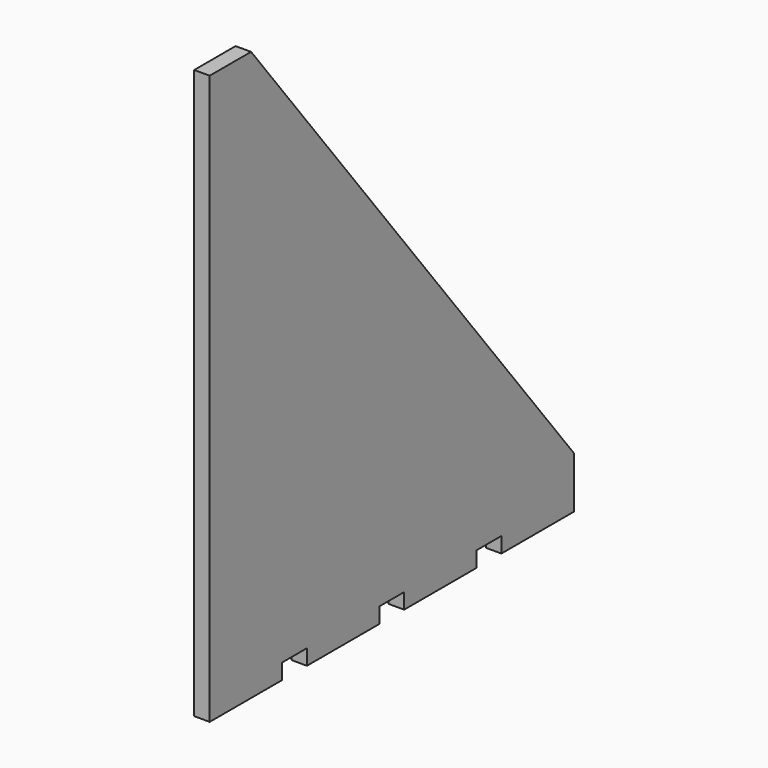
from build123d import *

# Parameters (mm, degrees)
F1_DEPTH = 3
F2_W     = 6
F2_H     = 3
F3_DEPTH = 25


with BuildPart() as f1:
    # F0 (on Right) → F1 (new body)
    with BuildSketch(Plane.YZ):
        Polygon((0, 110), (0, 0), (88, 0), (88, 10), (10, 110), align=None)
    extrude(amount=F1_DEPTH)

    # F2 (on face) → F3 (cut)
    with BuildSketch(Plane(origin=(0, 0, 0), x_dir=(0, -1, 0), z_dir=(-1, 0, 0))):
        with Locations((-44, 1.5)):
            Rectangle(F2_W, F2_H)
        with Locations((-20.5, 1.5)):
            Rectangle(F2_W, F2_H)
        with Locations((-67.5, 1.5)):
            Rectangle(F2_W, F2_H)
    extrude(amount=-F3_DEPTH, mode=Mode.SUBTRACT)


solid = f1.part
